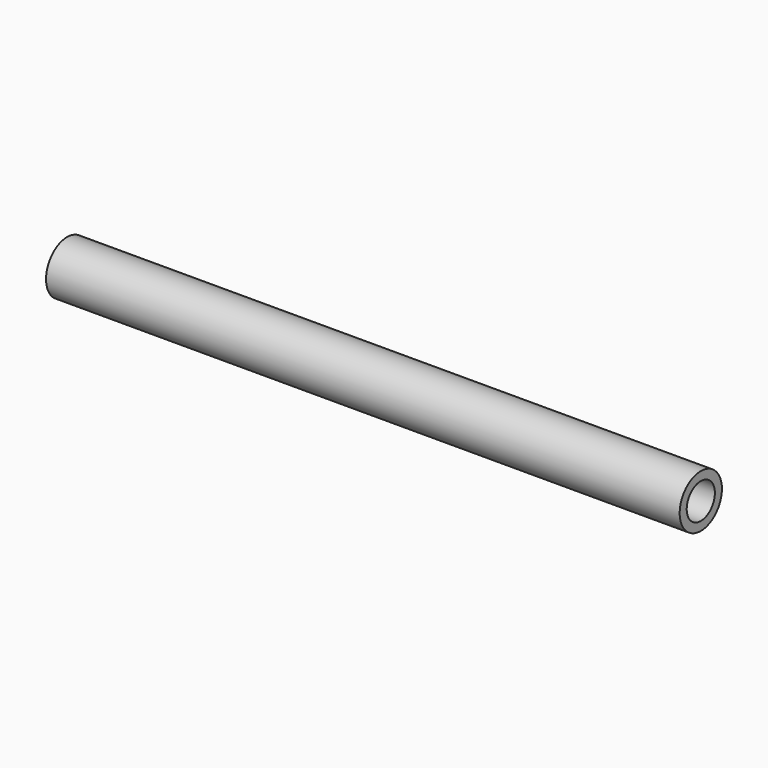
from build123d import *

# Parameters (mm, degrees)
F0_R     = 19.05
F1_DEPTH = 457.2
F2_R     = 12.7
F3_DEPTH = 457.201


with BuildPart() as f1:
    # F0 (on Right) → F1 (new body)
    with BuildSketch(Plane.YZ):
        Circle(F0_R)
    extrude(amount=F1_DEPTH)

    # F2 (on face) → F3 (cut, through all)
    with BuildSketch(Plane.YZ.offset(457.2)):
        Circle(F2_R)
    extrude(amount=-F3_DEPTH, mode=Mode.SUBTRACT)


solid = f1.part
